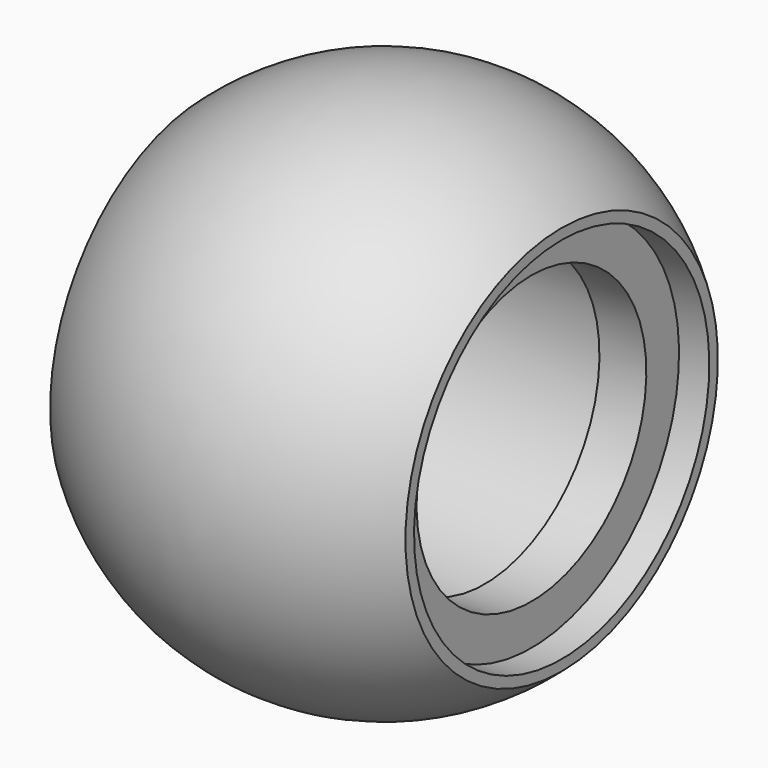
from build123d import *


with BuildPart() as f1:
    # F0 (on Front) → F1 (revolve)
    with BuildSketch(Plane.XZ):
        with BuildLine():
            Line((9.750114, 12.205), (11.750114, 12.205))
            Line((11.750114, 12.205), (11.750114, 12.914582))
            ThreePointArc((11.750114, 12.914582), (0, 17.46), (-11.750114, 12.914582))
            Line((-11.750114, 12.914582), (-11.750114, 12.314582))
            Line((-11.750114, 12.314582), (-7.755426, 11.005))
            Line((-7.755426, 11.005), (6.649886, 11.005))
            Line((6.649886, 11.005), (6.649886, 9.5))
            Line((6.649886, 9.5), (9.750114, 9.5))
            Line((9.750114, 9.5), (9.750114, 12.205))
        make_face()
    revolve(axis=Axis((0, 0, 0), (1, 0, 0)))


solid = f1.part
